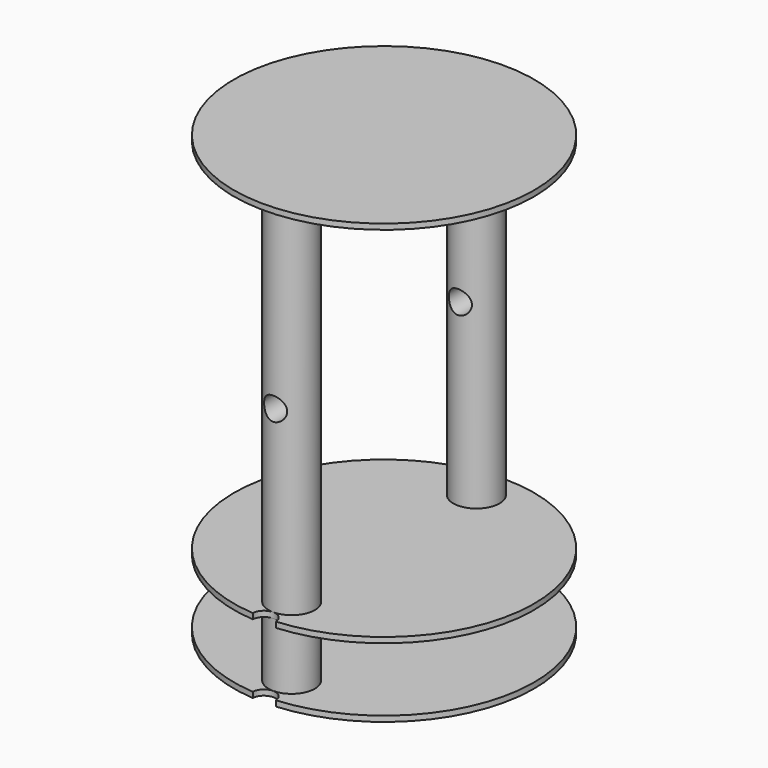
from build123d import *

# Parameters (mm, degrees)
F1_START      = 78.8
F0_R          = 32.5
F0_R_2        = 5
F1_DEPTH      = 1.2
F2_DEPTH      = 80
F2_DEPTH_BACK = 15
F3_DEPTH      = 1.2
F4_START      = -13.8
F4_DEPTH      = 1.2
F5_D          = 5
F5_DEPTH      = 15.001
F6_D          = 5
F6_DEPTH      = 12
F6_TIP        = 1.5021515476
F8_D          = 5
F8_DEPTH      = 32.501
F9_D          = 5


with BuildPart() as f1:
    # F0 (on Top) → F1 (new body)
    with BuildSketch(Plane.XY.offset(F1_START)):
        Circle(F0_R)
        with Locations((0, -25)):
            Circle(F0_R_2, mode=Mode.SUBTRACT)
        with Locations((0, 25)):
            Circle(F0_R_2, mode=Mode.SUBTRACT)
    extrude(amount=F1_DEPTH)

    # F0 (on Top) → F2 (join, two sides)
    with BuildSketch(Plane.XY) as f2_sk:
        with Locations((0, 25)):
            Circle(F0_R_2)
        with Locations((0, -25)):
            Circle(F0_R_2)
    extrude(amount=F2_DEPTH)
    extrude(f2_sk.sketch, amount=-F2_DEPTH_BACK)

    # F0 (on Top) → F3 (join)
    with BuildSketch(Plane.XY):
        Circle(F0_R)
        with Locations((0, -25)):
            Circle(F0_R_2, mode=Mode.SUBTRACT)
        with Locations((0, 25)):
            Circle(F0_R_2, mode=Mode.SUBTRACT)
    extrude(amount=F3_DEPTH)

    # F0 (on Top) → F4 (join)
    with BuildSketch(Plane.XY.offset(F4_START)):
        Circle(F0_R)
        with Locations((0, -25)):
            Circle(F0_R_2, mode=Mode.SUBTRACT)
        with Locations((0, 25)):
            Circle(F0_R_2, mode=Mode.SUBTRACT)
    extrude(amount=-F4_DEPTH)

    # F5 (through all, one way)
    with BuildSketch(Plane.XY):
        with Locations((0, -32.5)):
            Circle(F5_D / 2)
    extrude(amount=-F5_DEPTH, mode=Mode.SUBTRACT)

    # F6
    with Locations(Plane(origin=(0, 0, 0), x_dir=(1, 0, 0), z_dir=(0, 0, -1))):
        with Locations((0, 32.5)):
            Hole(F6_D / 2, depth=F6_DEPTH)
            with Locations((0, 0, -(F6_DEPTH + F6_TIP / 2))):  # 118° drill point
                Cone(0, F6_D / 2, F6_TIP, mode=Mode.SUBTRACT)

    # F8 (through all, one way)
    with BuildSketch(Plane.XZ):
        with Locations((0, 40)):
            Circle(F8_D / 2)
    extrude(amount=-F8_DEPTH, mode=Mode.SUBTRACT)

    # F9 (through all)
    with Locations(Plane(origin=(0, 0, 0), x_dir=(1, 0, 0), z_dir=(0, 1, 0))):
        with Locations((0, -40)):
            Hole(F9_D / 2)


solid = f1.part
